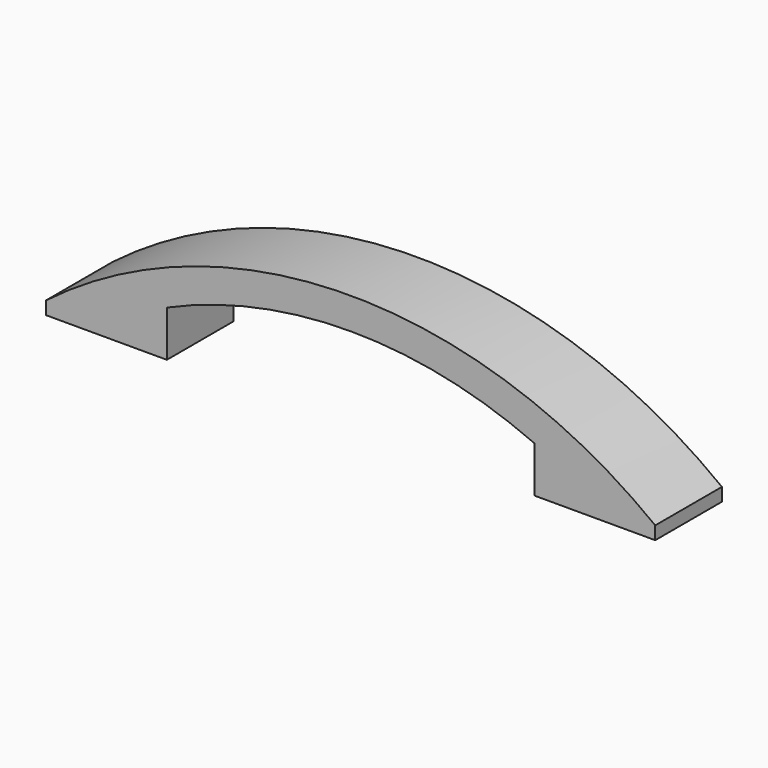
from build123d import *

# Parameters (mm, degrees)
F2_DEPTH   = 8.509
F4_D       = 2.794
F4_DEPTH   = 7.62
F4_START   = 0.0673694
F4_START_2 = 0.0673774
F4_TIP     = 0.8394022848


with BuildPart() as f2:
    # F0 (on Front) → F2 (new body, symmetric)
    with BuildSketch(Plane.XZ):
        with BuildLine():
            ThreePointArc((55.7179713222, -8.0797821716), (-6.4739286778, 12.9986083689), (-68.6658286778, -8.0797821716))
            Line((-68.6658286778, -8.0797821716), (-68.6658286778, -10.7530225501))
            Line((-68.6658286778, -10.7530225501), (-44.0024286778, -10.7530225501))
            Line((-44.0024286778, -10.7530225501), (-44.0024286778, -1.3550225501))
            ThreePointArc((-44.0024286778, -1.3550225501), (-6.4739278287, 6.5894008462), (31.0545713222, -1.3550305716))
            Line((31.0545713222, -1.3550305716), (31.0545713222, -10.7530305716))
            Line((31.0545713222, -10.7530305716), (55.7179713222, -10.7530305716))
            Line((55.7179713222, -10.7530305716), (55.7179713222, -8.0797821716))
        make_face()
    extrude(amount=F2_DEPTH, both=True)


with BuildPart() as f2_1:
    # F3: moved
    add(f2.part.moved(Location((0, 0, 10.8204))))

    # F4
    # its depths count from where the whole tool has entered the part; down to there all is cleared
    with Locations(Plane(origin=(0, 0, 0), x_dir=(1, 0, 0), z_dir=(0, 0, -1))):
        with Locations((-54.4799286778, 0, -F4_START_2), (41.5204335099, 0, -F4_START)):
            Hole(F4_D / 2, depth=F4_DEPTH)
            with Locations((0, 0, -(F4_DEPTH + F4_TIP / 2))):  # 118° drill point
                Cone(0, F4_D / 2, F4_TIP, mode=Mode.SUBTRACT)


solid = f2_1.part
